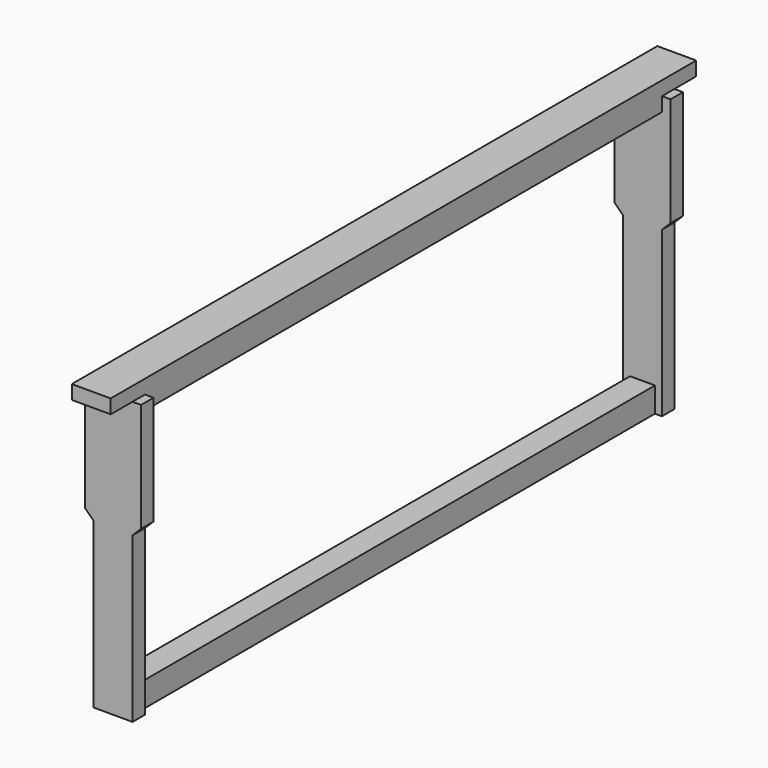
from build123d import *

# Parameters (mm, degrees)
PAD005_DEPTH = 12.5
PAD006_DEPTH = 10
PAD007_DEPTH = 10
SKETCH012_W  = 415
SKETCH012_H  = 16
PAD008_DEPTH = 8


with BuildPart() as part:
    # Sketch008 → Pad005 (new body, symmetric)
    with BuildSketch(Plane.YZ):
        Polygon((-235, 194), (235, 194), (235, 185), (207.5, 185), (207.5, 176), (-207.5, 176), (-207.5, 185), (-235, 185), align=None)
    extrude(amount=PAD005_DEPTH, both=True)

    # Sketch010 (on Face6 of Pad005) → Pad006 (join)
    with BuildSketch(Plane(origin=(0, -207.5, 0), x_dir=(0, 0, -1), z_dir=(0, -1, 0))):
        Polygon((-185, 18), (-185, -18), (-115, -18), (-109.5, -12.5), (-4, -12.5), (-4, 12.5), (-109.5, 12.5), (-115, 18), align=None)
    extrude(amount=PAD006_DEPTH)

    # Sketch011 (on Face8 of Pad006) → Pad007 (join)
    with BuildSketch(Plane.ZX.offset(207.5)):
        Polygon((4, 12.5), (109.5, 12.5), (115, 18), (185, 18), (185, -18), (115, -18), (109.5, -12.5), (4, -12.5), align=None)
    extrude(amount=PAD007_DEPTH)

    # Sketch012 → Pad008 (join, symmetric)
    with BuildSketch(Plane.YZ):
        with Locations((0, 12)):
            Rectangle(SKETCH012_W, SKETCH012_H)
    extrude(amount=PAD008_DEPTH, both=True)


solid = part.part
